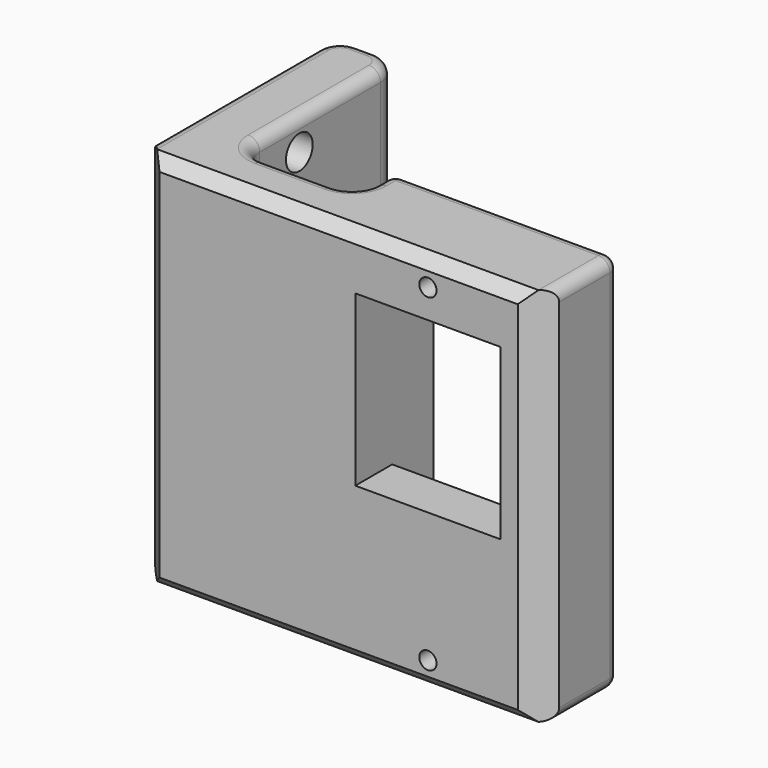
from build123d import *

# Parameters (mm, degrees)
SKETCH048_W     = 21.6
SKETCH048_H     = 33
PAD018_DEPTH    = 5.5
SKETCH049_W     = 4.5
SKETCH049_H     = 33
PAD019_DEPTH    = 29.6
SKETCH050_W     = 33
SKETCH050_H     = 19.6
PAD020_DEPTH    = 4
SKETCH051_W     = 23.5
SKETCH051_H     = 12.6
POCKET023_DEPTH = 4.5
SKETCH052_W     = 14.7
SKETCH052_H     = 12.6
POCKET024_DEPTH = 4
SKETCH053_R     = 0.75
POCKET025_DEPTH = 9
CHAMFER007_SIZE = 1
CHAMFER008_SIZE = 2
FILLET010_R     = 2
FILLET013_R     = 2
FILLET014_R     = 2
FILLET015_R     = 1
FILLET016_R     = 1
SKETCH054_R     = 3.75
SKETCH054_R_2   = 1.45
POCKET026_DEPTH = 6


with BuildPart() as part:
    # Sketch048 → Pad018 (new body)
    with BuildSketch(Plane.YZ):
        with Locations((6.3, 0)):
            Rectangle(SKETCH048_W, SKETCH048_H)
    extrude(amount=PAD018_DEPTH)

    # Sketch049 (on Face6 of Pad018) → Pad019 (join)
    with BuildSketch(Plane.YZ.offset(5.5)):
        with Locations((-2.25, 0)):
            Rectangle(SKETCH049_W, SKETCH049_H)
    extrude(amount=PAD019_DEPTH)

    # Sketch050 (on Face9 of Pad019) → Pad020 (join)
    with BuildSketch(Plane.ZX):
        with Locations((0, 25.3)):
            Rectangle(SKETCH050_W, SKETCH050_H)
    extrude(amount=PAD020_DEPTH)

    # Sketch051 (on Face15 of Pad020) → Pocket023 (cut)
    with BuildSketch(Plane.ZX.offset(4)):
        with Locations((0, 25.3)):
            Rectangle(SKETCH051_W, SKETCH051_H)
    extrude(amount=-POCKET023_DEPTH, mode=Mode.SUBTRACT)

    # Sketch052 (on Face21 of Pocket023) → Pocket024 (cut)
    with BuildSketch(Plane.ZX.offset(-0.5)):
        with Locations((4.4, 25.3)):
            Rectangle(SKETCH052_W, SKETCH052_H)
    extrude(amount=-POCKET024_DEPTH, mode=Mode.SUBTRACT)

    # Sketch053 (on Face19 of Pocket024) → Pocket025 (cut)
    with BuildSketch(Plane.ZX.offset(4)):
        with Locations((-14.25, 25.3)):
            Circle(SKETCH053_R)
        with Locations((14.25, 25.3)):
            Circle(SKETCH053_R)
    extrude(amount=-POCKET025_DEPTH, mode=Mode.SUBTRACT)

    # Chamfer007
    chamfer007_edges = [part.edges().sort_by_distance(p)[0] for p in [
        (20.3, -4.5, 16.5),
        (20.3, -4.5, -16.5),
    ]]
    chamfer(chamfer007_edges, length=CHAMFER007_SIZE)

    # Chamfer008
    chamfer008_edges = [part.edges().sort_by_distance(p)[0] for p in [
        (0, -4.5, 0),
        (35.1, -4.5, 0),
    ]]
    chamfer(chamfer008_edges, length=CHAMFER008_SIZE)

    # Fillet010
    fillet010_edges = [part.edges().sort_by_distance(p)[0] for p in [
        (0, 17.1, 0),
        (5.5, 17.1, 0),
    ]]
    fillet(fillet010_edges, radius=FILLET010_R)

    # Fillet013
    fillet013_edges = [part.edges().sort_by_distance(p)[0] for p in [
        (5.5, 0, 0),
    ]]
    fillet(fillet013_edges, radius=FILLET013_R)

    # Fillet014
    fillet014_edges = [part.edges().sort_by_distance(p)[0] for p in [
        (15.5, 0, 0),
    ]]
    fillet(fillet014_edges, radius=FILLET014_R)

    # Fillet015
    fillet015_edges = [part.edges().sort_by_distance(p)[0] for p in [
        (15.5, 4, 0),
        (35.1, 4, 0),
    ]]
    fillet(fillet015_edges, radius=FILLET015_R)

    # Fillet016
    fillet016_edges = [part.edges().sort_by_distance(p)[0] for p in [
        (25.3, 4, 16.5),
        (25.3, 4, -16.5),
    ]]
    fillet(fillet016_edges, radius=FILLET016_R)

    # Sketch054 (on Face4 of Pocket025) → Pocket026 (cut)
    with BuildSketch(Plane(origin=(0, 0, 0), x_dir=(0, 1, 0), z_dir=(-1, 0, 0))):
        with Locations((6.3, -5.75)):
            Circle(SKETCH054_R)
        with Locations((6.3, -13.75)):
            Circle(SKETCH054_R_2)
        with Locations((6.3, 13.5)):
            Circle(SKETCH054_R_2)
    extrude(amount=-POCKET026_DEPTH, mode=Mode.SUBTRACT)


with BuildPart() as part_1:
    # Body005 placement: moved
    add(part.part.moved(Location((102, 0, 0))))


solid = part_1.part
